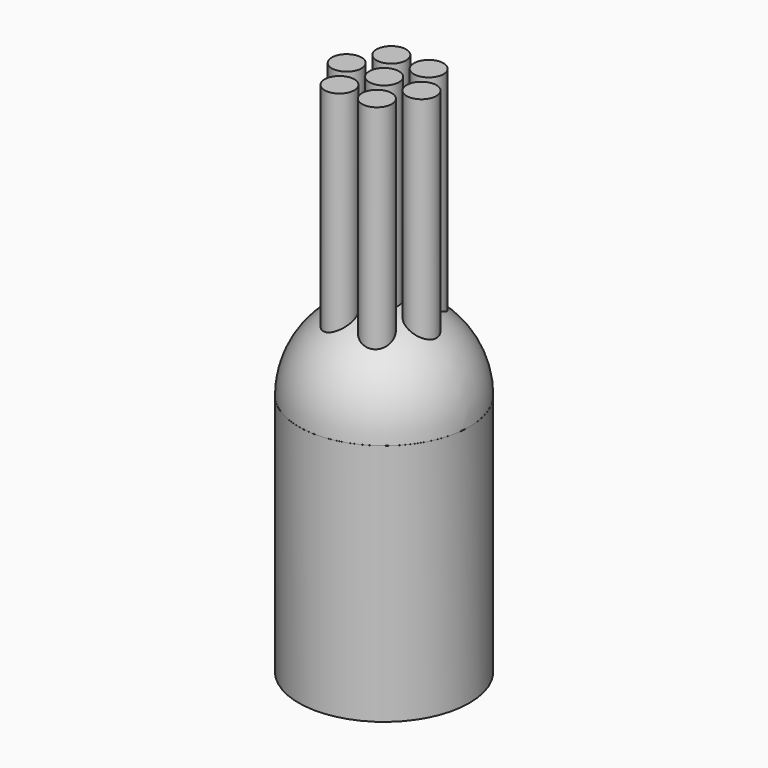
from build123d import *

# Parameters (mm, degrees)
CYLINDER059_R     = 0.79375
CYLINDER059_DEPTH = 28
ARRAY002_COUNT    = 6
CYLINDER060_R     = 0.79375
CYLINDER060_DEPTH = 28
CYLINDER058_R     = 4.564063
CYLINDER058_DEPTH = 13


with BuildPart() as array002:
    # Cylinder059 → Cylinder059 (new body)
    with BuildSketch(Plane(origin=(2, 0, 0), x_dir=(1, 0, 0), z_dir=(0, 0, 1))):
        Circle(CYLINDER059_R)
    extrude(amount=CYLINDER059_DEPTH)

    # Array002: Array002 ×6 about axis
    array002_axis = Axis((0, 0, 0), (0, 0, 1))


with BuildPart() as array002_1:
    add(array002.part)
    for i in range(1, ARRAY002_COUNT):
        add(array002.part.rotate(array002_axis, i * 360 / ARRAY002_COUNT))


with BuildPart() as obj1:
    # Cylinder060 → Cylinder060 (new body)
    with BuildSketch(Plane.XY):
        Circle(CYLINDER060_R)
    extrude(amount=CYLINDER060_DEPTH)

    # Fusion022: union Array002
    add(array002_1.part)


with BuildPart() as compression001:
    # Sphere001 → Sphere001 (revolve)
    with BuildSketch(Plane(origin=(0, 0, 13), x_dir=(1, 0, 0), z_dir=(0, -1, 0))):
        with BuildLine():
            ThreePointArc((0, -4.56), (4.56, 0), (0, 4.56))
            Line((0, 4.56), (0, -4.56))
        make_face()
    revolve(axis=Axis((0, 0, 13), (0, 0, 1)))


with BuildPart() as obj2:
    # Cylinder058 → Cylinder058 (new body)
    with BuildSketch(Plane.XY):
        Circle(CYLINDER058_R)
    extrude(amount=CYLINDER058_DEPTH)

    # Fusion025: union obj1, Compression001
    add(obj1.part)
    add(compression001.part)


with BuildPart() as obj2_1:
    # Fusion025 placement: moved
    add(obj2.part.moved(Location((73.25, 199.75, 0))))


solid = obj2_1.part
